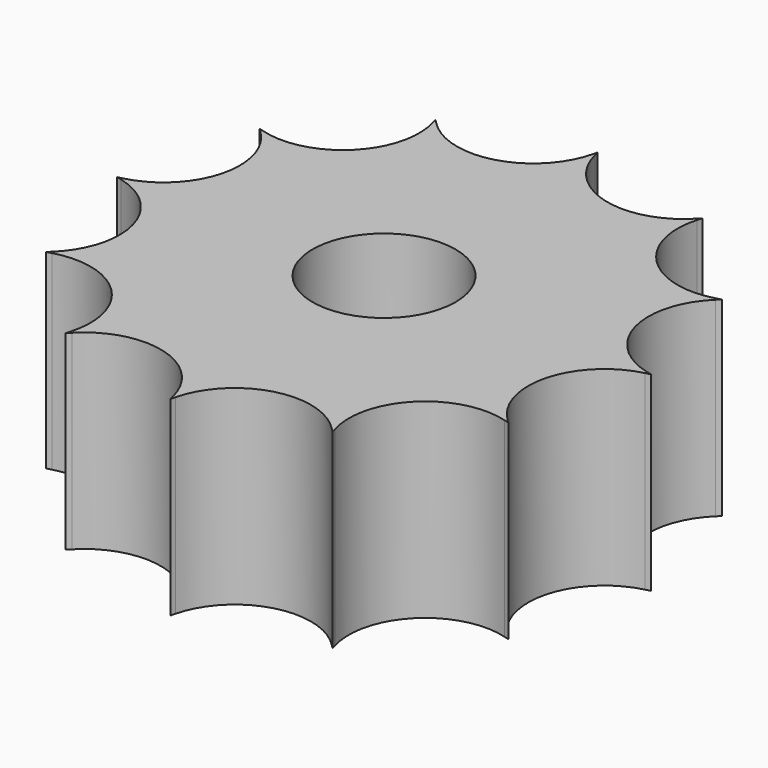
from build123d import *

# Parameters (mm, degrees)
F0_R     = 1.875
F1_DEPTH = 5


with BuildPart() as f1:
    # F0 (on Top) → F1 (new body)
    with BuildSketch(Plane.XY):
        with BuildLine():
            Line((-3.409259, 5.968383), (-3.5, 6.062178))
            Line((-3.5, 6.062178), (-3.464142, 5.936696))
            Line((-3.464142, 5.936696), (-2.474874, 2.474874))
            Line((-2.474874, 2.474874), (-5.936696, 3.464142))
            Line((-5.936696, 3.464142), (-6.062178, 3.5))
            Line((-6.062178, 3.5), (-5.968383, 3.409259))
            Line((-5.968383, 3.409259), (-3.38074, 0.905867))
            Line((-3.38074, 0.905867), (-6.873401, 0.031687))
            Line((-6.873401, 0.031687), (-7, 0))
            Line((-7, 0), (-6.873401, -0.031687))
            Line((-6.873401, -0.031687), (-3.38074, -0.905867))
            Line((-3.38074, -0.905867), (-5.968383, -3.409259))
            Line((-5.968383, -3.409259), (-6.062178, -3.5))
            Line((-6.062178, -3.5), (-5.936696, -3.464142))
            Line((-5.936696, -3.464142), (-2.474874, -2.474874))
            Line((-2.474874, -2.474874), (-3.464142, -5.936696))
            Line((-3.464142, -5.936696), (-3.5, -6.062178))
            Line((-3.5, -6.062178), (-3.409259, -5.968383))
            Line((-3.409259, -5.968383), (-0.905867, -3.38074))
            Line((-0.905867, -3.38074), (-0.031687, -6.873401))
            Line((-0.031687, -6.873401), (0, -7))
            Line((0, -7), (0.031687, -6.873401))
            Line((0.031687, -6.873401), (0.905867, -3.38074))
            Line((0.905867, -3.38074), (3.409259, -5.968383))
            Line((3.409259, -5.968383), (3.5, -6.062178))
            Line((3.5, -6.062178), (3.464142, -5.936696))
            Line((3.464142, -5.936696), (2.474874, -2.474874))
            Line((2.474874, -2.474874), (5.936696, -3.464142))
            Line((5.936696, -3.464142), (6.062178, -3.5))
            Line((6.062178, -3.5), (5.968383, -3.409259))
            Line((5.968383, -3.409259), (3.38074, -0.905867))
            Line((3.38074, -0.905867), (6.873401, -0.031687))
            Line((6.873401, -0.031687), (7, 0))
            Line((7, 0), (6.873401, 0.031687))
            Line((6.873401, 0.031687), (3.38074, 0.905867))
            Line((3.38074, 0.905867), (5.968383, 3.409259))
            Line((5.968383, 3.409259), (6.062178, 3.5))
            Line((6.062178, 3.5), (5.936696, 3.464142))
            Line((5.936696, 3.464142), (2.474874, 2.474874))
            Line((2.474874, 2.474874), (3.464142, 5.936696))
            Line((3.464142, 5.936696), (3.5, 6.062178))
            Line((3.5, 6.062178), (3.409259, 5.968383))
            Line((3.409259, 5.968383), (0.905867, 3.38074))
            Line((0.905867, 3.38074), (0.031687, 6.873401))
            Line((0.031687, 6.873401), (0, 7))
            Line((0, 7), (-0.031687, 6.873401))
            ThreePointArc((-0.031687, 6.873401), (-1.454201, 5.427151), (-3.409259, 5.968383))
        make_face()
        Circle(F0_R, mode=Mode.SUBTRACT)
        with BuildLine():
            Line((-2.474874, 2.474874), (-3.464142, 5.936696))
            ThreePointArc((-3.464142, 5.936696), (-3.97295, 3.97295), (-5.936696, 3.464142))
            Line((-5.936696, 3.464142), (-2.474874, 2.474874))
        make_face()
        with BuildLine():
            ThreePointArc((3.409259, 5.968383), (1.454201, 5.427151), (0.031687, 6.873401))
            Line((0.031687, 6.873401), (0.905867, 3.38074))
            Line((0.905867, 3.38074), (3.409259, 5.968383))
        make_face()
        with BuildLine():
            Line((-3.38074, 0.905867), (-5.968383, 3.409259))
            ThreePointArc((-5.968383, 3.409259), (-5.427151, 1.454201), (-6.873401, 0.031687))
            Line((-6.873401, 0.031687), (-3.38074, 0.905867))
        make_face()
        with BuildLine():
            ThreePointArc((5.936696, 3.464142), (3.97295, 3.97295), (3.464142, 5.936696))
            Line((3.464142, 5.936696), (2.474874, 2.474874))
            Line((2.474874, 2.474874), (5.936696, 3.464142))
        make_face()
        with BuildLine():
            Line((-3.38074, -0.905867), (-6.873401, -0.031687))
            ThreePointArc((-6.873401, -0.031687), (-5.427151, -1.454201), (-5.968383, -3.409259))
            Line((-5.968383, -3.409259), (-3.38074, -0.905867))
        make_face()
        with BuildLine():
            ThreePointArc((6.873401, 0.031687), (5.427151, 1.454201), (5.968383, 3.409259))
            Line((5.968383, 3.409259), (3.38074, 0.905867))
            Line((3.38074, 0.905867), (6.873401, 0.031687))
        make_face()
        with BuildLine():
            Line((-2.474874, -2.474874), (-5.936696, -3.464142))
            ThreePointArc((-5.936696, -3.464142), (-3.97295, -3.97295), (-3.464142, -5.936696))
            Line((-3.464142, -5.936696), (-2.474874, -2.474874))
        make_face()
        with BuildLine():
            ThreePointArc((5.968383, -3.409259), (5.427151, -1.454201), (6.873401, -0.031687))
            Line((6.873401, -0.031687), (3.38074, -0.905867))
            Line((3.38074, -0.905867), (5.968383, -3.409259))
        make_face()
        with BuildLine():
            Line((-0.905867, -3.38074), (-3.409259, -5.968383))
            ThreePointArc((-3.409259, -5.968383), (-1.454201, -5.427151), (-0.031687, -6.873401))
            Line((-0.031687, -6.873401), (-0.905867, -3.38074))
        make_face()
        with BuildLine():
            ThreePointArc((3.464142, -5.936696), (3.97295, -3.97295), (5.936696, -3.464142))
            Line((5.936696, -3.464142), (2.474874, -2.474874))
            Line((2.474874, -2.474874), (3.464142, -5.936696))
        make_face()
        with BuildLine():
            Line((0.905867, -3.38074), (0.031687, -6.873401))
            ThreePointArc((0.031687, -6.873401), (1.454201, -5.427151), (3.409259, -5.968383))
            Line((3.409259, -5.968383), (0.905867, -3.38074))
        make_face()
    extrude(amount=F1_DEPTH)


solid = f1.part
